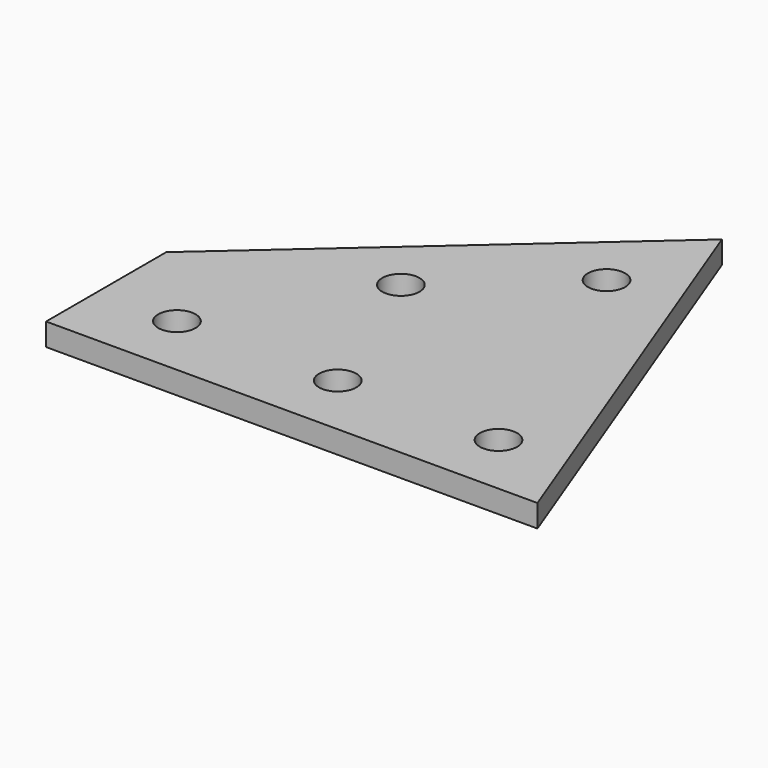
from build123d import *

# Parameters (mm, degrees)
SKETCH_R  = 2.9
PAD_DEPTH = 3.5


with BuildPart() as part:
    # Sketch → Pad (new body)
    with BuildSketch(Plane.XY):
        Polygon((0, -10), (0, 13.351924), (50.589934, 58.110117), (76.394549, -10), align=None)
        with Locations((27.616389, 24.432917)):
            Circle(SKETCH_R, mode=Mode.SUBTRACT)
        with Locations((46.340282, 40.998418)):
            Circle(SKETCH_R, mode=Mode.SUBTRACT)
        with Locations((62.344677, 0)):
            Circle(SKETCH_R, mode=Mode.SUBTRACT)
        with Locations((37.344677, 0)):
            Circle(SKETCH_R, mode=Mode.SUBTRACT)
        with Locations((12.344677, 0)):
            Circle(SKETCH_R, mode=Mode.SUBTRACT)
    extrude(amount=PAD_DEPTH)


solid = part.part
